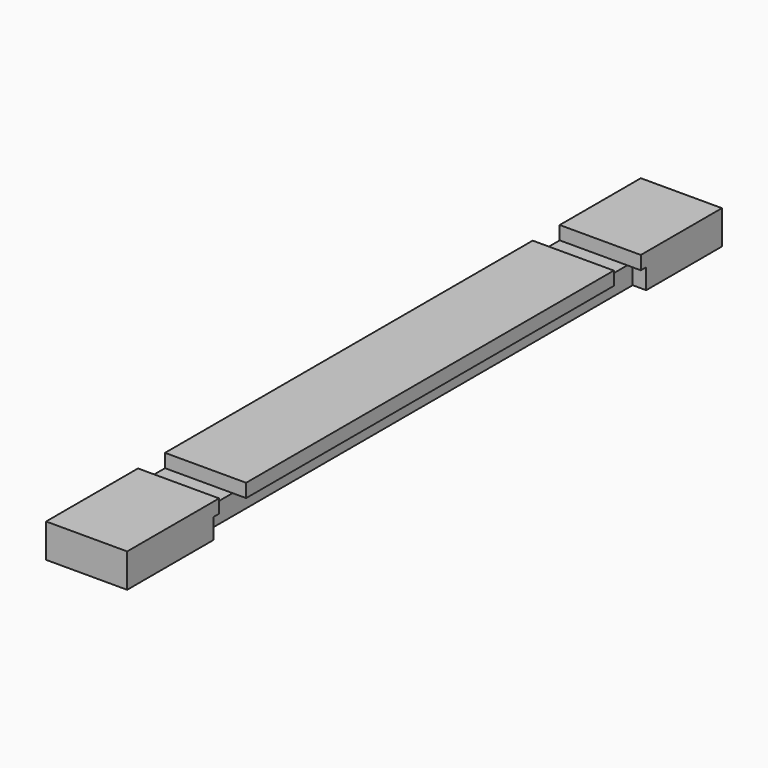
from build123d import *

# Parameters (mm, degrees)
F0_W     = 76.2
F0_H     = 31.75
F1_DEPTH = 698.5
F2_W     = 508
F2_H     = 19.05
F3_DEPTH = 12.7
F4_W     = 76.2
F4_H     = 31.75
F5_DEPTH = 12.7


with BuildPart() as f1:
    # F0 (on Front) → F1 (new body)
    with BuildSketch(Plane.XZ):
        with Locations((-38.1, 15.875)):
            Rectangle(F0_W, F0_H)
    extrude(amount=F1_DEPTH)

    # F2 (on face) → F3 (cut)
    with BuildSketch(Plane.YZ):
        with Locations((-342.9, 9.525)):
            Rectangle(F2_W, F2_H)
    extrude(amount=-F3_DEPTH, mode=Mode.SUBTRACT)

    # F4 (on face) → F5 (cut)
    with BuildSketch(Plane.XY.offset(31.75)):
        with Locations((-38.1, -574.675)):
            Rectangle(F4_W, F4_H)
        with Locations((-38.1, -111.125)):
            Rectangle(F4_W, F4_H)
    extrude(amount=-F5_DEPTH, mode=Mode.SUBTRACT)


solid = f1.part
